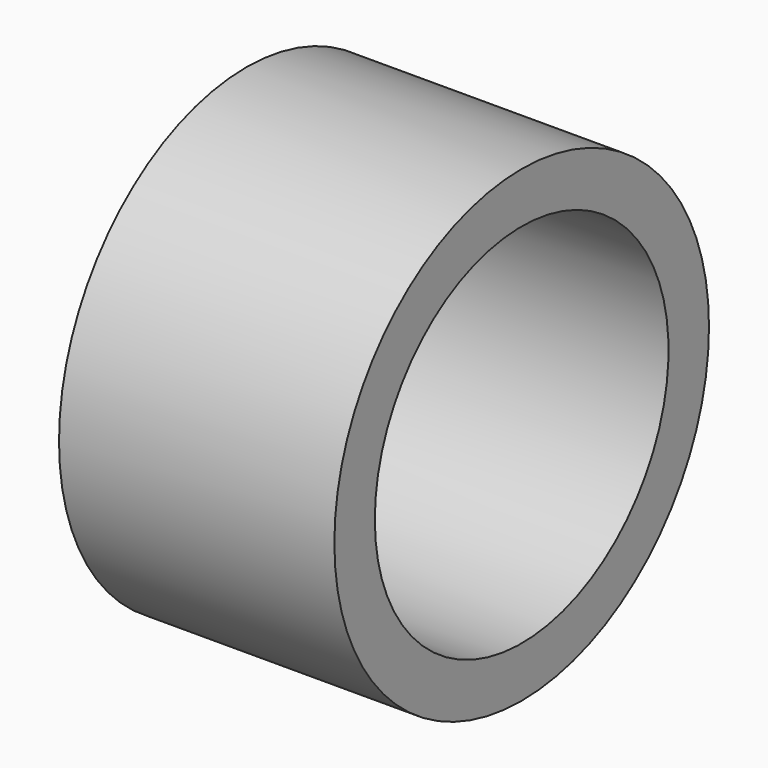
from build123d import *

# Parameters (mm, degrees)
F0_R     = 64.7966982458
F1_DEPTH = 76.2
F2_DEPTH = 25.4
F3_D     = 101.6
F3_DEPTH = 127
F3_TIP   = 30.5237194466


with BuildPart() as f1:
    # F0 (on Right) → F1 (new body)
    with BuildSketch(Plane.YZ):
        with Locations((-8.1026245671, -10.8826834557)):
            Circle(F0_R)
    extrude(amount=F1_DEPTH)

    # F0 (on Right) → F2 (join)
    with BuildSketch(Plane.YZ):
        with Locations((-8.1026245671, -10.8826834557)):
            Circle(F0_R)
    extrude(amount=F2_DEPTH)

    # F3
    with Locations(Plane(origin=(0, 0, 0), x_dir=(0, 1, 0), z_dir=(-1, 0, 0))):
        with Locations((-8.1026245671, 10.8826834557)):
            Hole(F3_D / 2, depth=F3_DEPTH)
            with Locations((0, 0, -(F3_DEPTH + F3_TIP / 2))):  # 118° drill point
                Cone(0, F3_D / 2, F3_TIP, mode=Mode.SUBTRACT)


solid = f1.part
